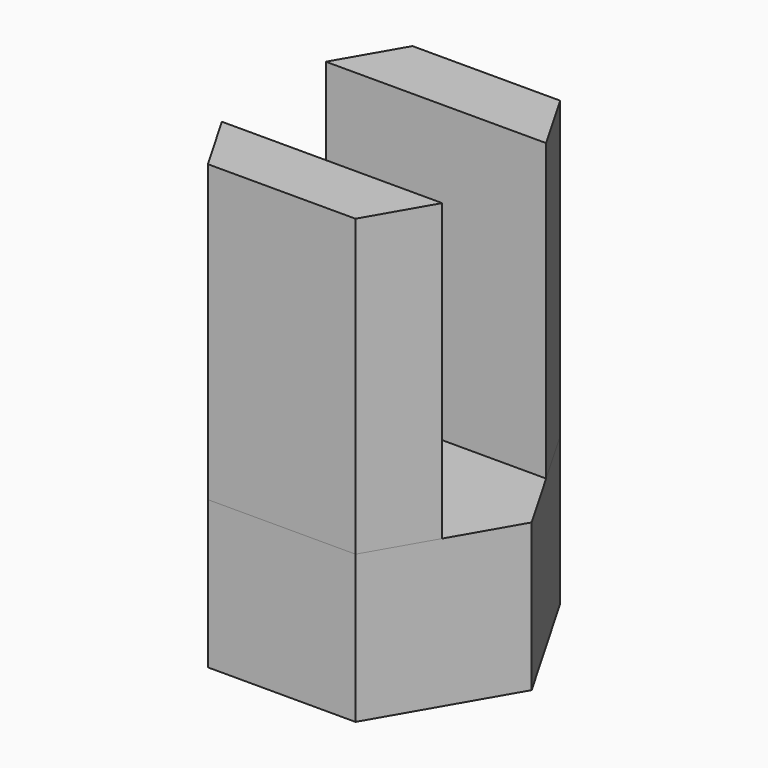
from build123d import *

# Parameters (mm, degrees)
F1_DEPTH = 12.7
F2_W     = 6.604
F2_H     = 2.794
F3_DEPTH = 12.701
F4_R     = 3.434136
F5_DEPTH = 6.35
F7_DEPTH = 3.175


with BuildPart() as f1:
    # F0 (on Top) → F1 (new body)
    with BuildSketch(Plane.XY):
        Polygon((-1.5875, -2.749631), (1.5875, -2.749631), (3.175, 0), (1.5875, 2.749631), (-1.5875, 2.749631), (-3.175, 0), align=None)
    extrude(amount=F1_DEPTH)

    # F2 (on face) → F3 (cut, through all)
    with BuildSketch(Plane.XY.offset(12.7)):
        Rectangle(F2_W, F2_H)
    extrude(amount=-F3_DEPTH, mode=Mode.SUBTRACT)

    # F4 (on face) → F5 (cut)
    with BuildSketch(Plane.XY.offset(12.7)):
        Circle(F4_R)
    extrude(amount=-F5_DEPTH, mode=Mode.SUBTRACT)


with BuildPart() as f7:
    # F6 (on face) → F7 (new body)
    with BuildSketch(Plane(origin=(0, 0, 0), x_dir=(1, 0, 0), z_dir=(0, 0, -1))):
        Polygon((1.5875, 2.749631), (-1.5875, 2.749631), (-3.175, 0), (-1.5875, -2.749631), (1.5875, -2.749631), (3.175, 0), align=None)
    extrude(amount=F7_DEPTH)


solid = Compound([f1.part, f7.part])
